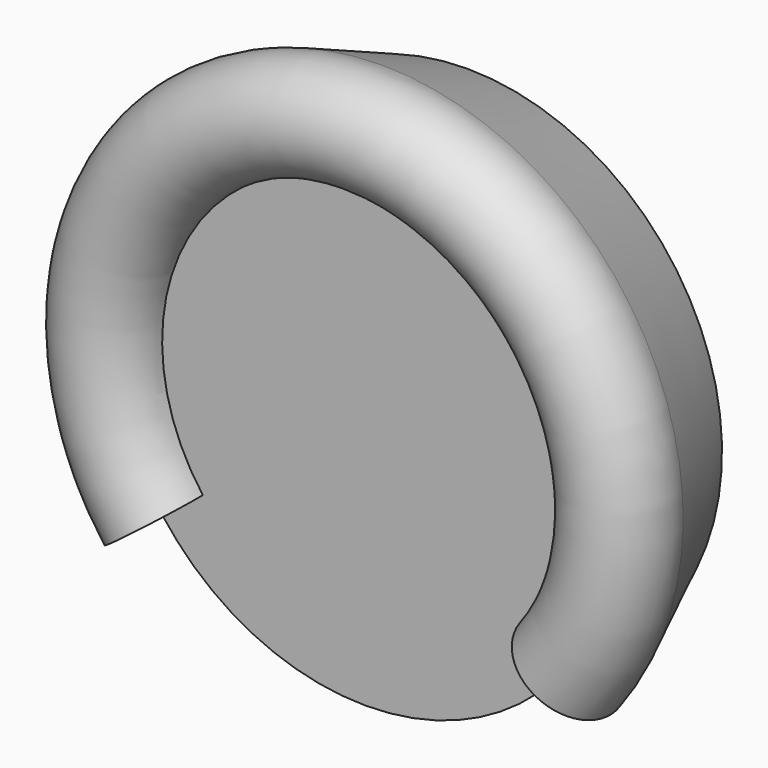
from build123d import *

# Parameters (mm, degrees)
F0_R     = 50
F1_DEPTH = 12.5


with BuildPart() as f1:
    # F0 (on Front) → F1 (new body, symmetric)
    with BuildSketch(Plane.XZ):
        Circle(F0_R)
    extrude(amount=F1_DEPTH, both=True)

    # F5: sweep along a path in F2
    with BuildLine(Plane.XZ.offset(12.5)) as f5_path:
        ThreePointArc((40, -30), (0, 50), (-40, -30))
    # F4 (on face) → F5 (sweep)
    with BuildSketch(Plane(origin=(0, 0, 0), x_dir=(0.8, 0, 0.6), z_dir=(-0.6, 0, 0.8))):
        with BuildLine():
            Line((-50, 12.5), (-59.165151, -8.5))
            ThreePointArc((-59.165151, -8.5), (-44.522774, -20.8666), (-50, -2.5))
            Line((-50, -2.5), (-50, 12.5))
        make_face()
    sweep(path=f5_path.line)


solid = f1.part
